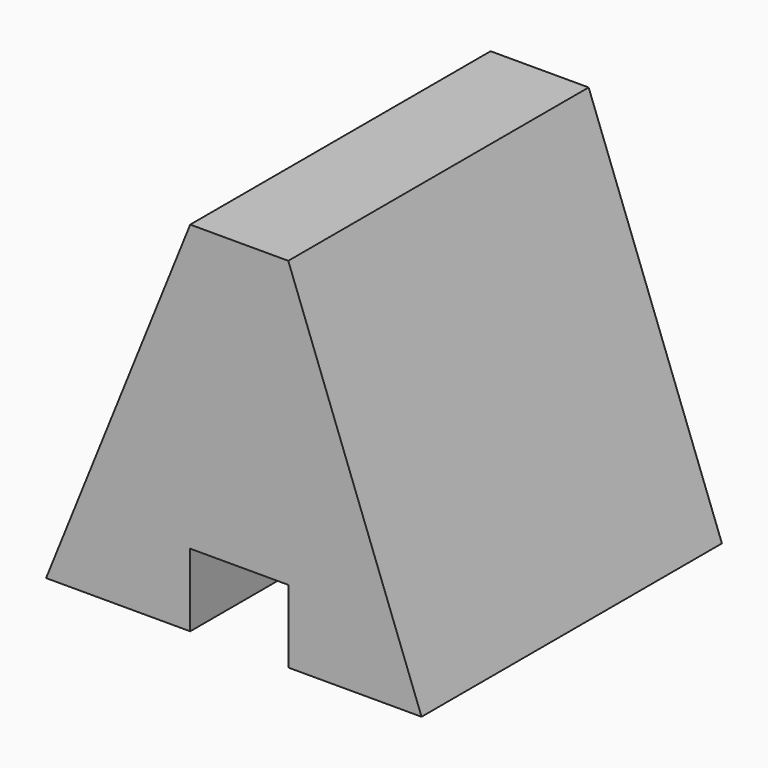
from build123d import *

# Parameters (mm, degrees)
F0_W     = 25.4
F0_H     = 31.75
F1_DEPTH = 25.4
F2_W     = 6.633994
F2_H     = 4.925239
F3_DEPTH = 25.401
F5_DEPTH = 25.401
F6_DEPTH = 25.401
F7_DEPTH = 25.401


with BuildPart() as f1:
    # F0 (on Front) → F1 (new body)
    with BuildSketch(Plane.XZ):
        with Locations((12.7, 15.875)):
            Rectangle(F0_W, F0_H)
    extrude(amount=F1_DEPTH)

    # F2 (on face) → F3 (cut, through all)
    with BuildSketch(Plane.XZ.offset(25.4)):
        with Locations((13.06696, 2.462619)):
            Rectangle(F2_W, F2_H)
    extrude(amount=-F3_DEPTH, mode=Mode.SUBTRACT)

    # F4 (on face) → F5 (cut, through all)
    with BuildSketch(Plane.XZ.offset(25.4)):
        Polygon((25.4, 31.75), (0, 31.75), (0, 0), (9.749963, 24.224134), (16.383957, 24.224134), (25.4, 0), align=None)
    extrude(amount=-F5_DEPTH, mode=Mode.SUBTRACT)

    # F2 (on face) → F6 (cut, through all)
    with BuildSketch(Plane.XZ.offset(25.4)):
        Polygon((0, 31.75), (0, 0), (9.749963, 24.224134), (16.383957, 24.224134), (25.4, 0), (25.4, 31.75), align=None)
    extrude(amount=-F6_DEPTH, mode=Mode.SUBTRACT)

    # F2 (on face) → F7 (cut, through all)
    with BuildSketch(Plane.XZ.offset(25.4)):
        Polygon((0, 31.75), (0, 0), (9.749963, 24.224134), (16.383957, 24.224134), (25.4, 0), (25.4, 31.75), align=None)
    extrude(amount=-F7_DEPTH, mode=Mode.SUBTRACT)


solid = f1.part
